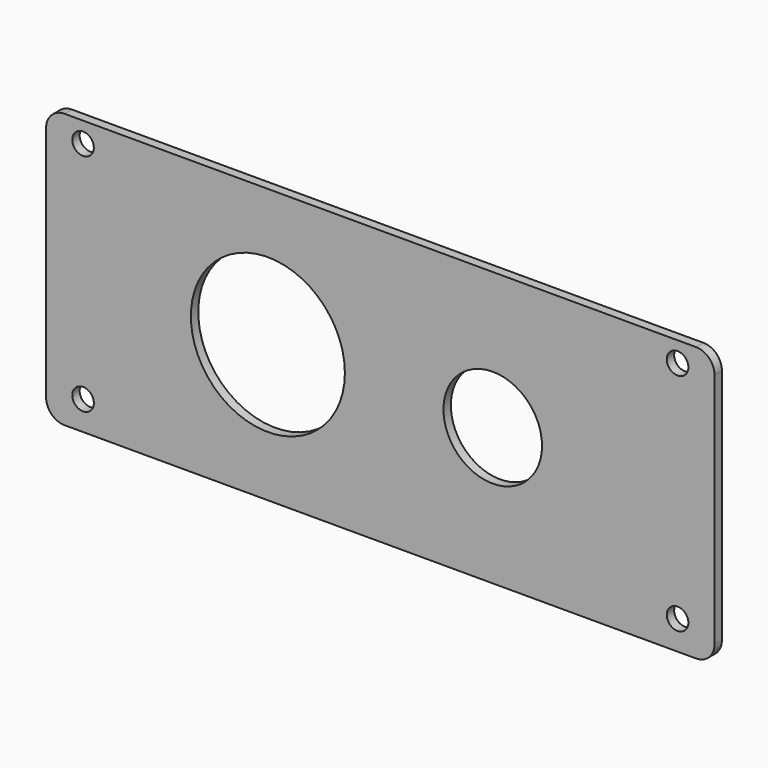
from build123d import *

# Parameters (mm, degrees)
F0_W     = 108.5
F0_H     = 44.5
F0_R     = 1.75
F0_R_2   = 12.5
F0_R_3   = 8
F1_DEPTH = 1.5
F2_R     = 3


with BuildPart() as f1:
    # F0 (on Front) → F1 (new body)
    with BuildSketch(Plane.XZ):
        Rectangle(F0_W, F0_H)
        with Locations((-48.25, -17.55)):
            Circle(F0_R, mode=Mode.SUBTRACT)
        with Locations((48.25, -17.55)):
            Circle(F0_R, mode=Mode.SUBTRACT)
        with Locations((-18.25, 0)):
            Circle(F0_R_2, mode=Mode.SUBTRACT)
        with Locations((-48.25, 18.95)):
            Circle(F0_R, mode=Mode.SUBTRACT)
        with Locations((18.25, 0)):
            Circle(F0_R_3, mode=Mode.SUBTRACT)
        with Locations((48.25, 18.95)):
            Circle(F0_R, mode=Mode.SUBTRACT)
    extrude(amount=F1_DEPTH)

    # F2
    f2_edges = [f1.edges().sort_by_distance(p)[0] for p in [
        (54.25, -0.75, 22.25),
        (54.25, -0.75, -22.25),
        (-54.25, -0.75, -22.25),
        (-54.25, -0.75, 22.25),
    ]]
    fillet(f2_edges, radius=F2_R)


solid = f1.part
